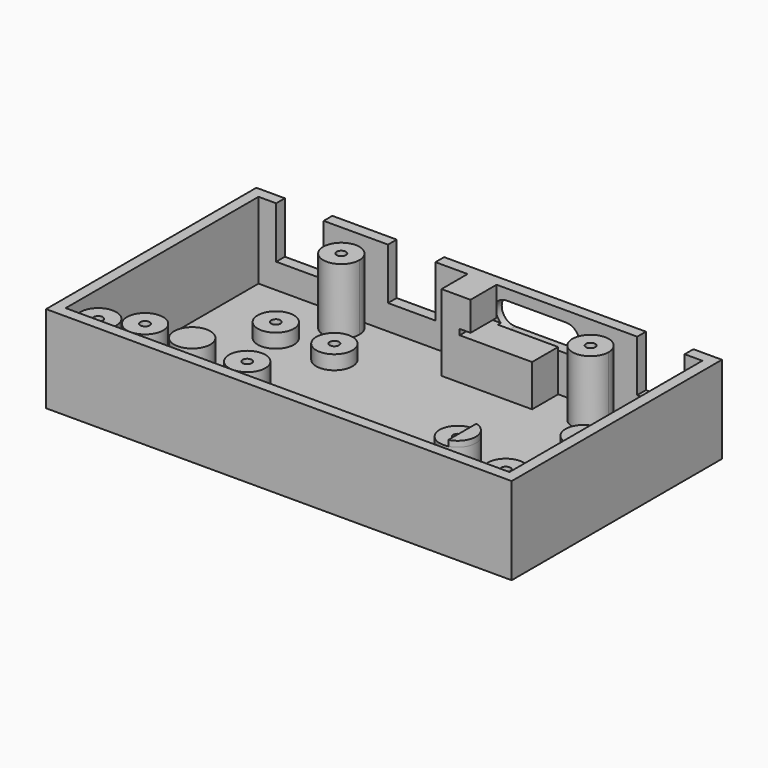
from build123d import *

# Parameters (mm, degrees)
SKETCH_W        = 128.52
SKETCH_H        = 72.55
PAD_DEPTH       = 24.1
SKETCH001_W     = 122.52
SKETCH001_H     = 66.55
POCKET_DEPTH    = 21.1
SKETCH002_R     = 5
PAD001_DEPTH    = 3.9
SKETCH003_R     = 1.28
POCKET001_DEPTH = 3.9
SKETCH004_R     = 5
SKETCH004_W     = 25
SKETCH004_H     = 10
PAD002_DEPTH    = 11.5
SKETCH005_R     = 1.28
POCKET002_DEPTH = 3.94
SKETCH006_R     = 5
PAD003_DEPTH    = 18.5
SKETCH007_R     = 1.28
POCKET003_DEPTH = 4.1
SKETCH008_R     = 5
PAD004_DEPTH    = 18.1
SKETCH009_R     = 1.28
POCKET004_DEPTH = 2.5
POCKET005_DEPTH = 3
POCKET006_DEPTH = 13.56
POCKET007_DEPTH = 17.4
POCKET008_DEPTH = 18.6
SKETCH014_W     = 5
SKETCH014_H     = 9
PAD005_DEPTH    = 1.56
SKETCH015_W     = 8
SKETCH015_H     = 9
PAD006_DEPTH    = 8.04
SKETCH016_W     = 28
SKETCH016_H     = 1.56
POCKET009_DEPTH = 1
SKETCH018_W     = 13.1
SKETCH018_H     = 14.2
POCKET010_DEPTH = 3


with BuildPart() as part:
    # Sketch → Pad (new body)
    with BuildSketch(Plane.XY):
        Rectangle(SKETCH_W, SKETCH_H)
    extrude(amount=PAD_DEPTH)

    # Sketch001 (on Face6 of Pad) → Pocket (cut)
    with BuildSketch(Plane.XY.offset(24.1)):
        Rectangle(SKETCH001_W, SKETCH001_H)
    extrude(amount=-POCKET_DEPTH, mode=Mode.SUBTRACT)

    # Sketch002 (on Face11 of Pocket) → Pad001 (join)
    with BuildSketch(Plane.XY.offset(3)):
        with Locations((-42.48, 15.775)):
            Circle(SKETCH002_R)
        with Locations((-57.18, -17.825)):
            Circle(SKETCH002_R)
        with Locations((-26.32, 15.775)):
            Circle(SKETCH002_R)
        with Locations((-11.62, -17.825)):
            Circle(SKETCH002_R)
        with Locations((42.48, 15.775)):
            Circle(SKETCH002_R)
        with Locations((57.18, -17.825)):
            Circle(SKETCH002_R)
    extrude(amount=PAD001_DEPTH)

    # Sketch003 (on Face21 of Pad001) → Pocket001 (cut)
    with BuildSketch(Plane.XY.offset(6.9)):
        with Locations((-42.48, 15.775)):
            Circle(SKETCH003_R)
        with Locations((-26.32, 15.775)):
            Circle(SKETCH003_R)
        with Locations((42.48, 15.775)):
            Circle(SKETCH003_R)
        with Locations((57.18, -17.825)):
            Circle(SKETCH003_R)
        with Locations((-11.62, -17.825)):
            Circle(SKETCH003_R)
        with Locations((-57.18, -17.825)):
            Circle(SKETCH003_R)
    extrude(amount=-POCKET001_DEPTH, mode=Mode.SUBTRACT)

    # Sketch004 (on Face11 of Pocket001) → Pad002 (join)
    with BuildSketch(Plane.XY.offset(3)):
        with Locations((27.53, -24.135)):
            Circle(SKETCH004_R)
        with Locations((30.66, -12.875)):
            Circle(SKETCH004_R)
        with Locations((8.96, 29.275)):
            Rectangle(SKETCH004_W, SKETCH004_H)
    extrude(amount=PAD002_DEPTH)

    # Sketch005 (on Face30 of Pad002) → Pocket002 (cut)
    with BuildSketch(Plane.XY.offset(14.5)):
        with Locations((30.66, -12.875)):
            Circle(SKETCH005_R)
        with Locations((27.53, -24.135)):
            Circle(SKETCH005_R)
    extrude(amount=-POCKET002_DEPTH, mode=Mode.SUBTRACT)

    # Sketch006 (on Face11 of Pocket002) → Pad003 (join)
    with BuildSketch(Plane.XY.offset(3)):
        with Locations((-46.46, -24.375)):
            Circle(SKETCH006_R)
        with Locations((-18.26, -24.375)):
            Circle(SKETCH006_R)
        with Locations((-34.4, -23.175)):
            Circle(SKETCH006_R)
    extrude(amount=PAD003_DEPTH)

    # Sketch007 (on Face30 of Pad003) → Pocket003 (cut)
    with BuildSketch(Plane.XY.offset(21.5)):
        with Locations((-46.46, -24.375)):
            Circle(SKETCH007_R)
        with Locations((-18.26, -24.375)):
            Circle(SKETCH007_R)
    extrude(amount=-POCKET003_DEPTH, mode=Mode.SUBTRACT)

    # Sketch008 (on Face11 of Pocket003) → Pad004 (join)
    with BuildSketch(Plane.XY.offset(3)):
        with Locations((-34.4, 28.275)):
            Circle(SKETCH008_R)
        with Locations((34.4, 28.275)):
            Circle(SKETCH008_R)
        with Locations((-56.26, -28.275)):
            Circle(SKETCH008_R)
        with Locations((56.26, -28.275)):
            Circle(SKETCH008_R)
    extrude(amount=PAD004_DEPTH)

    # Sketch009 (on Face3 of Pad004) → Pocket004 (cut)
    with BuildSketch(Plane.XY.offset(21.1)):
        with Locations((-34.4, 28.275)):
            Circle(SKETCH009_R)
        with Locations((34.4, 28.275)):
            Circle(SKETCH009_R)
        with Locations((56.26, -28.275)):
            Circle(SKETCH009_R)
        with Locations((-56.26, -28.275)):
            Circle(SKETCH009_R)
    extrude(amount=-POCKET004_DEPTH, mode=Mode.SUBTRACT)

    # Sketch010 (on Face63 of Pocket004) → Pocket005 (cut)
    with BuildSketch(Plane(origin=(0, 0, 0), x_dir=(1, 0, 0), z_dir=(0, 0, -1))):
        Polygon((-54.18, 17.825), (-55.68, 20.423076), (-58.68, 20.423076), (-60.18, 17.825), (-58.68, 15.226924), (-55.68, 15.226924), align=None)
        Polygon((-40.98, -18.373076), (-39.48, -15.775), (-40.98, -13.176924), (-43.98, -13.176924), (-45.48, -15.775), (-43.98, -18.373076), align=None)
        Polygon((-23.32, -15.775), (-24.82, -13.176924), (-27.82, -13.176924), (-29.32, -15.775), (-27.82, -18.373076), (-24.82, -18.373076), align=None)
        Polygon((-10.12, 15.226924), (-8.62, 17.825), (-10.12, 20.423076), (-13.12, 20.423076), (-14.62, 17.825), (-13.12, 15.226924), align=None)
        Polygon((58.68, 15.226924), (60.18, 17.825), (58.68, 20.423076), (55.68, 20.423076), (54.18, 17.825), (55.68, 15.226924), align=None)
        Polygon((43.98, -18.373076), (45.48, -15.775), (43.98, -13.176924), (40.98, -13.176924), (39.48, -15.775), (40.98, -18.373076), align=None)
    extrude(amount=-POCKET005_DEPTH, mode=Mode.SUBTRACT)

    # Sketch011 (on Face63 of Pocket005) → Pocket006 (cut)
    with BuildSketch(Plane(origin=(0, 0, 0), x_dir=(1, 0, 0), z_dir=(0, 0, -1))):
        Polygon((30.53, 24.135), (29.03, 26.733076), (26.03, 26.733076), (24.53, 24.135), (26.03, 21.536924), (29.03, 21.536924), align=None)
        Polygon((32.16, 10.276924), (33.66, 12.875), (32.16, 15.473076), (29.16, 15.473076), (27.66, 12.875), (29.16, 10.276924), align=None)
    extrude(amount=-POCKET006_DEPTH, mode=Mode.SUBTRACT)

    # Sketch012 (on Face63 of Pocket006) → Pocket007 (cut)
    with BuildSketch(Plane(origin=(0, 0, 0), x_dir=(1, 0, 0), z_dir=(0, 0, -1))):
        Polygon((-43.46, 24.375), (-44.96, 26.973076), (-47.96, 26.973076), (-49.46, 24.375), (-47.96, 21.776924), (-44.96, 21.776924), align=None)
        Polygon((-15.26, 24.375), (-16.76, 26.973076), (-19.76, 26.973076), (-21.26, 24.375), (-19.76, 21.776924), (-16.76, 21.776924), align=None)
    extrude(amount=-POCKET007_DEPTH, mode=Mode.SUBTRACT)

    # Sketch013 (on Face63 of Pocket007) → Pocket008 (cut)
    with BuildSketch(Plane(origin=(0, 0, 0), x_dir=(1, 0, 0), z_dir=(0, 0, -1))):
        Polygon((-54.76, 25.676924), (-53.26, 28.275), (-54.76, 30.873076), (-57.76, 30.873076), (-59.26, 28.275), (-57.76, 25.676924), align=None)
        Polygon((57.76, 25.676924), (59.26, 28.275), (57.76, 30.873076), (54.76, 30.873076), (53.26, 28.275), (54.76, 25.676924), align=None)
        Polygon((32.9, -25.676924), (31.4, -28.275), (32.9, -30.873076), (35.9, -30.873076), (37.4, -28.275), (35.9, -25.676924), align=None)
        Polygon((-31.4, -28.275), (-32.9, -25.676924), (-35.9, -25.676924), (-37.4, -28.275), (-35.9, -30.873076), (-32.9, -30.873076), align=None)
    extrude(amount=-POCKET008_DEPTH, mode=Mode.SUBTRACT)

    # Sketch014 (on Face46 of Pocket008) → Pad005 (join)
    with BuildSketch(Plane.XY.offset(14.5)):
        with BuildLine():
            ThreePointArc((31.933882, -17.71), (35.66, -12.875), (31.933882, -8.04))
            Line((31.933882, -8.04), (31.933882, -17.71))
        make_face()
        with BuildLine():
            ThreePointArc((22.695, -25.408882), (27.53, -29.135), (32.365, -25.408882))
            Line((22.695, -25.408882), (32.365, -25.408882))
        make_face()
        with Locations((-1.04, 28.775)):
            Rectangle(SKETCH014_W, SKETCH014_H)
    extrude(amount=PAD005_DEPTH)

    # Sketch015 (on Face32 of Pad005) → Pad006 (join)
    with BuildSketch(Plane.XY.offset(16.06)):
        with Locations((0.46, 28.775)):
            Rectangle(SKETCH015_W, SKETCH015_H)
    extrude(amount=PAD006_DEPTH)

    # Sketch016 (on Face10 of Pad006) → Pocket009 (cut)
    with BuildSketch(Plane.XZ.offset(-33.275)):
        with Locations((15.43, 15.28)):
            Rectangle(SKETCH016_W, SKETCH016_H)
    extrude(amount=-POCKET009_DEPTH, mode=Mode.SUBTRACT)

    # Sketch018 (on Face62 of Pocket009) → Pocket010 (cut)
    with BuildSketch(Plane(origin=(0, 36.275, 0), x_dir=(-1, 0, 0), z_dir=(0, 1, 0))):
        with BuildLine():
            ThreePointArc((-23.63, 21.15), (-27.38, 17.4), (-23.63, 13.65))
            Line((-23.63, 13.65), (-7.23, 13.65))
            ThreePointArc((-7.23, 13.65), (-3.48, 17.4), (-7.23, 21.15))
            Line((-23.63, 21.15), (-7.23, 21.15))
        make_face()
        with Locations((-49.83, 17)):
            Rectangle(SKETCH018_W, SKETCH018_H)
        with Locations((18.97, 17)):
            Rectangle(SKETCH018_W, SKETCH018_H)
        with Locations((49.83, 17)):
            Rectangle(SKETCH018_W, SKETCH018_H)
    extrude(amount=-POCKET010_DEPTH, mode=Mode.SUBTRACT)


solid = part.part
